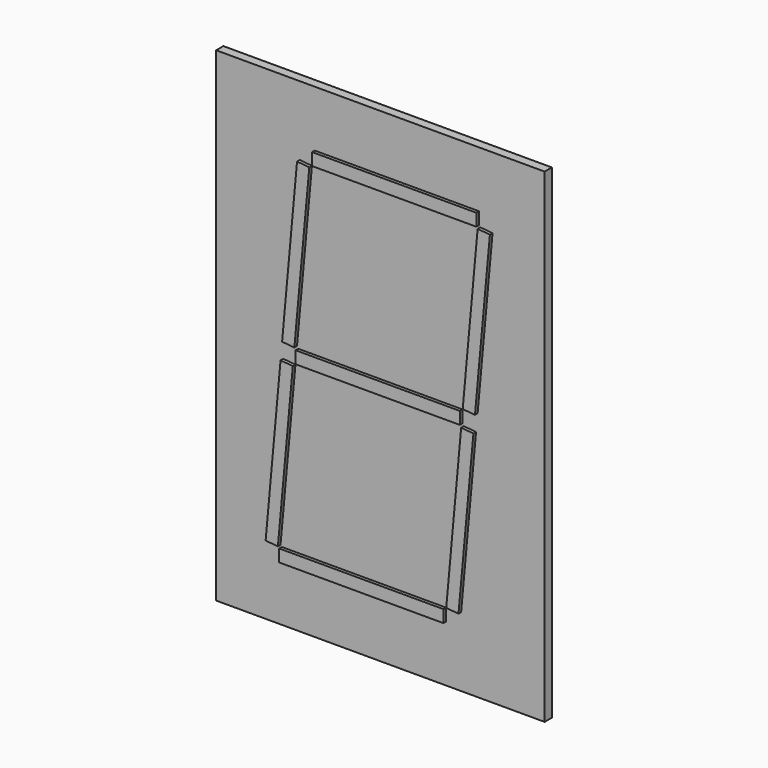
from build123d import *

# Parameters (mm, degrees)
F0_W     = 100.000007
F0_H     = 7.500015
F1_DEPTH = 2
F0_W_2   = 100
F0_H_2   = 7.5
F0_W_3   = 100.000004
F2_W     = 200
F2_H     = 295
F3_DEPTH = 5.5


with BuildPart() as f1:
    # F0 (on Front) → F1 (new body)
    with BuildSketch(Plane.XZ):
        with Locations((10.0000135, 109.4999925)):
            Rectangle(F0_W, F0_H)
    extrude(amount=F1_DEPTH)



with BuildPart() as f1b:
    # F0 (on Front) → F1, piece 2 (new body)
    with BuildSketch(Plane.XZ):
        Polygon((-49.156019, 105.224884), (-58.250597, 5.639297), (-50.781679, 4.957199), (-41.687101, 104.542786), align=None)
    extrude(amount=F1_DEPTH)


with BuildPart() as f1c:
    # F0 (on Front) → F1, piece 3 (new body)
    with BuildSketch(Plane.XZ):
        Polygon((60.812838, 104.883835), (51.718248, 5.298248), (59.187182, 4.61615), (68.281756, 104.201736), align=None)
    extrude(amount=F1_DEPTH)


with BuildPart() as f1d:
    # F0 (on Front) → F1, piece 4 (new body)
    with BuildSketch(Plane.XZ):
        with Locations((2e-06, 1.5e-05)):
            Rectangle(F0_W_2, F0_H_2)
    extrude(amount=F1_DEPTH)


with BuildPart() as f1e:
    # F0 (on Front) → F1, piece 5 (new body)
    with BuildSketch(Plane.XZ):
        Polygon((-59.18717, -4.61615), (-68.28175, -104.20174), (-60.81283, -104.883835), (-51.718252, -5.298248), align=None)
    extrude(amount=F1_DEPTH)


with BuildPart() as f1f:
    # F0 (on Front) → F1, piece 6 (new body)
    with BuildSketch(Plane.XZ):
        with Locations((-10, -109.499992)):
            Rectangle(F0_W_3, F0_H_2)
    extrude(amount=F1_DEPTH)


with BuildPart() as f1g:
    # F0 (on Front) → F1, piece 7 (new body)
    with BuildSketch(Plane.XZ):
        Polygon((50.781679, -4.957199), (41.687105, -104.542789), (49.156023, -105.22488), (58.250597, -5.639297), align=None)
    extrude(amount=F1_DEPTH)


with BuildPart() as f1_1:
    add(f1.part)

    add(f1b.part)  # F3 merges F1b

    add(f1c.part)  # F3 merges F1c

    add(f1d.part)  # F3 merges F1d

    add(f1e.part)  # F3 merges F1e

    add(f1f.part)  # F3 merges F1f

    add(f1g.part)  # F3 merges F1g
    # F2 (on Front) → F3 (join)
    with BuildSketch(Plane.XZ):
        with Locations((2e-06, 0)):
            Rectangle(F2_W, F2_H)
    extrude(amount=-F3_DEPTH)


solid = f1_1.part
